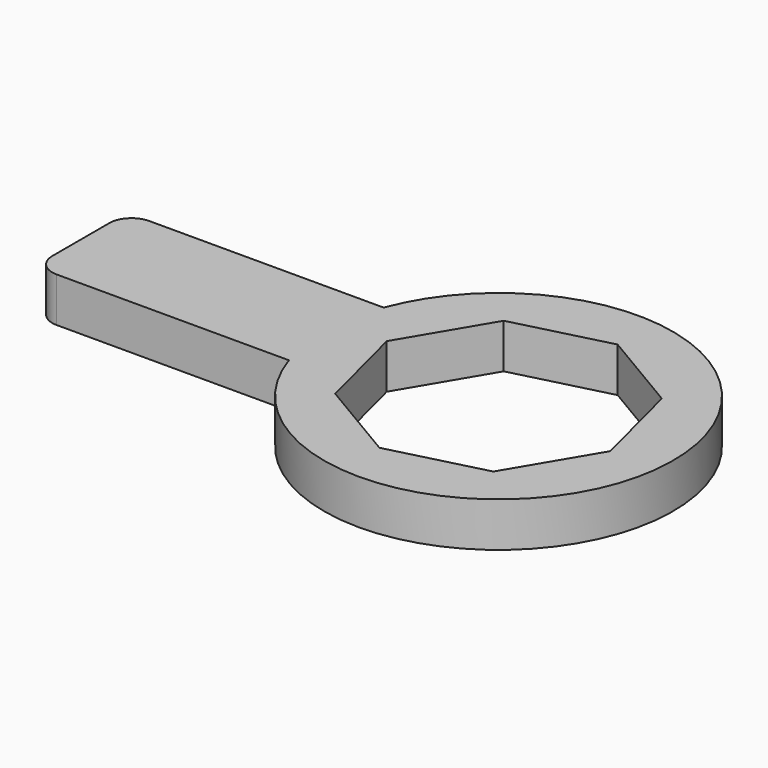
from build123d import *

# Parameters (mm, degrees)
F1_DEPTH = 12.7


with BuildPart() as f1:
    # F0 (on Top) → F1 (new body)
    with BuildSketch(Plane.XY):
        with BuildLine():
            Line((-113.441508, -15.644414), (-47.243212, -15.644414))
            ThreePointArc((-47.243212, -15.644414), (49.757732, -0.914829), (-46.636212, 17.370451))
            Line((-46.636212, 17.370451), (-113.441508, 17.370451))
            ThreePointArc((-113.441508, 17.370451), (-117.931636, 15.510579), (-119.791508, 11.020451))
            Line((-119.791508, 11.020451), (-119.791508, -9.294414))
            ThreePointArc((-119.791508, -9.294414), (-117.931636, -13.784542), (-113.441508, -15.644414))
        make_face()
        Polygon((29.107165, 21.807632), (36.002198, -5.161549), (21.807632, -29.107165), (-5.161549, -36.002198), (-29.107165, -21.807632), (-36.002198, 5.161549), (-21.807632, 29.107165), (5.161549, 36.002198), align=None, mode=Mode.SUBTRACT)
    extrude(amount=F1_DEPTH)


solid = f1.part
